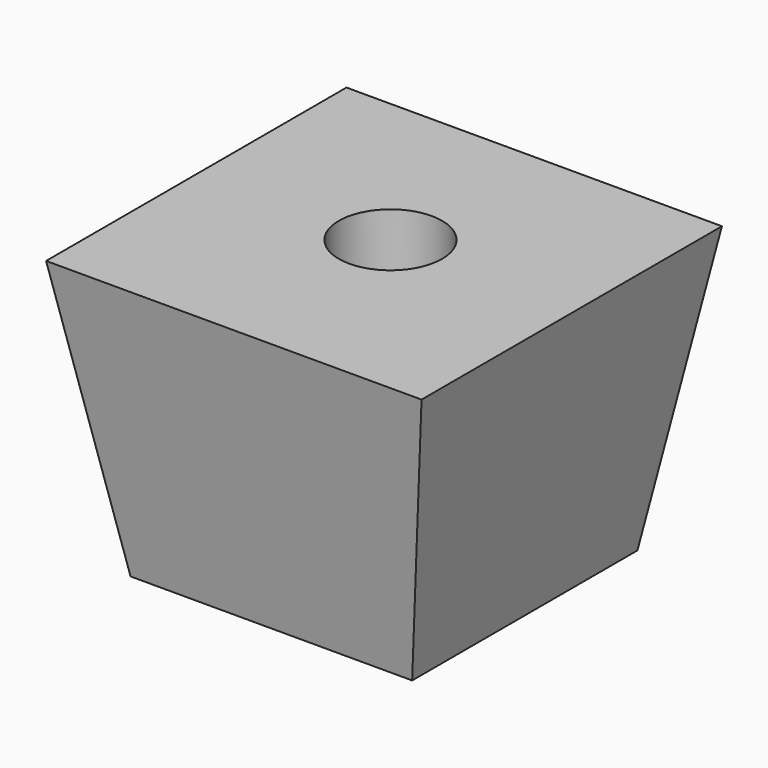
from build123d import *

# Parameters (mm, degrees)
F0_W     = 20
F0_H     = 20
F2_W     = 15
F2_H     = 15
F4_R     = 5
F5_DEPTH = 11
F6_R     = 2.75
F7_DEPTH = 10


with BuildPart() as f3:
    # F0 (on Top) → F3 section 0
    with BuildSketch(Plane.XY):
        Rectangle(F0_W, F0_H)
    # F2 (on offset) → F3 section 1
    with BuildSketch(Plane.XY.offset(-15)):
        Rectangle(F2_W, F2_H)
    loft()

    # F4 (on face) → F5 (cut)
    with BuildSketch(Plane(origin=(0, 0, -15), x_dir=(1, 0, 0), z_dir=(0, 0, -1))):
        with Locations((0, -0.431754)):
            Circle(F4_R)
    extrude(amount=-F5_DEPTH, mode=Mode.SUBTRACT)

    # F6 (on face) → F7 (cut)
    with BuildSketch(Plane(origin=(0, 0, -4), x_dir=(1, 0, 0), z_dir=(0, 0, -1))):
        with Locations((0, -0.431754)):
            Circle(F6_R)
    extrude(amount=-F7_DEPTH, mode=Mode.SUBTRACT)


solid = f3.part
